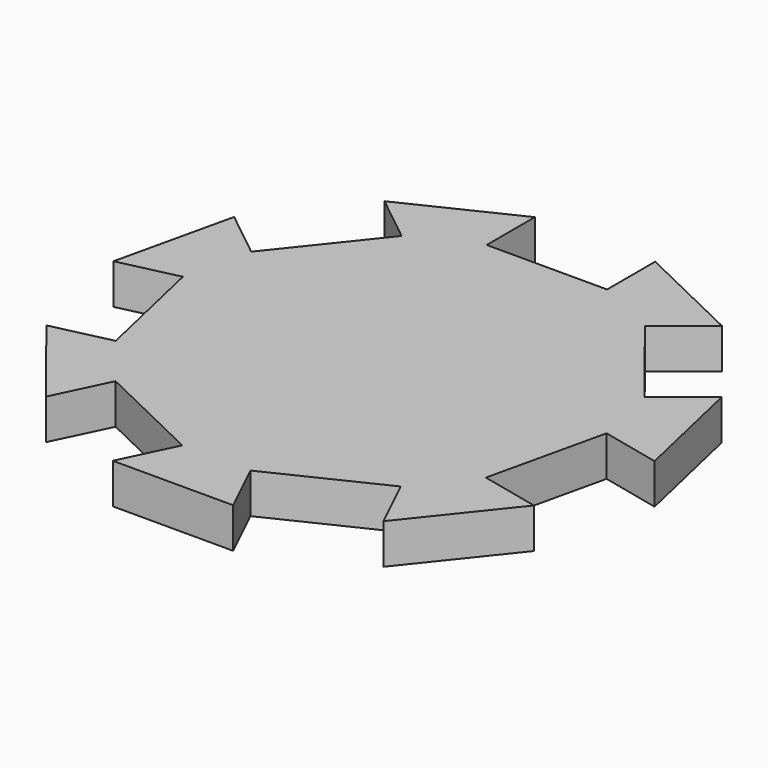
from build123d import *

# Parameters (mm, degrees)
F1_DEPTH = 2.1166666667


with BuildPart() as f1:
    # F0 (on Top) → F1 (new body, symmetric)
    with BuildSketch(Plane.XY):
        Polygon((-6.35, 21.4711677988), (-6.35, 27.8211677988), (-17.7923046224, 22.3108443121), (-12.8276747087, 18.3516840703), (-20.7459951923, 8.4224242429), (-25.710625106, 12.3815844847), (-28.5366409672, 0), (-22.3458487249, 1.4130079306), (-19.5198328636, -10.9685765541), (-25.710625106, -12.3815844847), (-17.7923046224, -22.3108443121), (-15.037142879, -16.5896920009), (-3.5948382566, -22.1000154877), (-6.35, -27.8211677988), (6.35, -27.8211677988), (3.5948382566, -22.1000154877), (15.037142879, -16.5896920009), (17.7923046224, -22.3108443121), (25.710625106, -12.3815844847), (19.5198328636, -10.9685765541), (22.3458487249, 1.4130079306), (28.5366409672, 0), (25.710625106, 12.3815844847), (20.7459951923, 8.4224242429), (12.8276747087, 18.3516840703), (17.7923046224, 22.3108443121), (6.35, 27.8211677988), (6.35, 21.4711677988), align=None)
    extrude(amount=F1_DEPTH, both=True)


solid = f1.part
